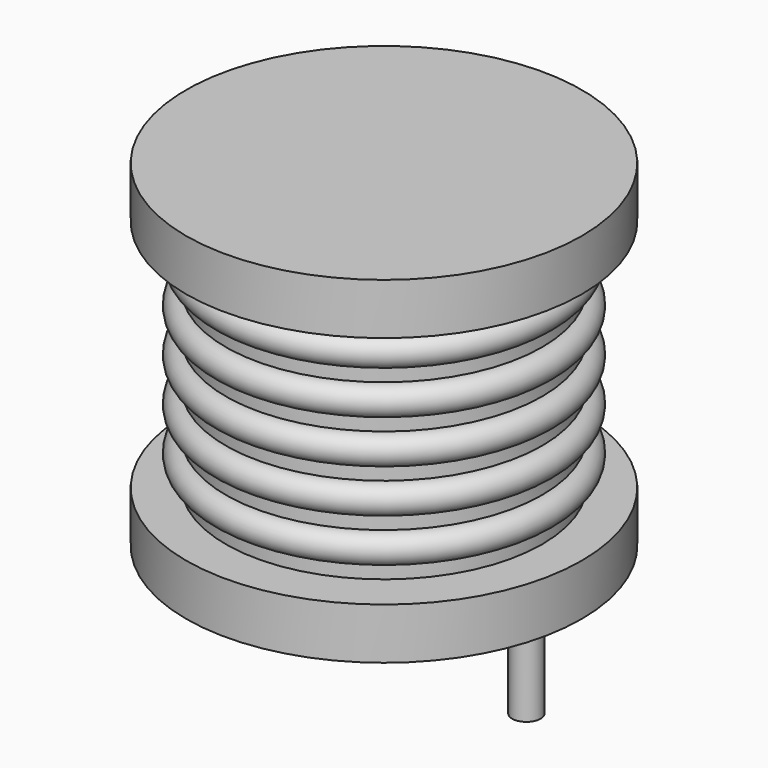
from build123d import *

# Parameters (mm, degrees)
SKETCH001_R  = 0.45
PAD001_DEPTH = 3.5


with BuildPart() as pad001:
    # Sketch001 → Pad001 (new body)
    with BuildSketch(Plane.XY.offset(0.5)):
        Circle(SKETCH001_R)
        with Locations((9, 0)):
            Circle(SKETCH001_R)
    extrude(amount=-PAD001_DEPTH)


with BuildPart() as revolution:
    # Sketch → Revolution (revolve)
    with BuildSketch(Plane(origin=(4.5, 0, 0), x_dir=(1, 0, 0), z_dir=(0, -1, 0))):
        Polygon((0, 0.05), (3.6, 0.05), (3.6, 0.2), (6.25, 0.2), (6.25, 1.82), (1.25, 1.82), (1.25, 9.23), (6.25, 9.23), (6.25, 10.85), (0, 10.85), align=None)
    revolve(axis=Axis((4.5, 0, 0), (0, 0, 1)))


with BuildPart() as revolution001:
    # Sketch002 → Revolution001 (revolve)
    with BuildSketch(Plane(origin=(4.5, 0, 0), x_dir=(1, 0, 0), z_dir=(0, -1, 0))):
        with BuildLine():
            Line((5, 1.87), (1.25, 1.87))
            Line((1.25, 1.87), (1.25, 9.18))
            Line((1.25, 9.18), (5, 9.18))
            Line((5, 9.18), (5, 8.723125))
            ThreePointArc((5, 7.809375), (5.456875, 8.26625), (5, 8.723125))
            Line((5, 7.809375), (5, 7.3525))
            ThreePointArc((5, 6.43875), (5.456875, 6.895625), (5, 7.3525))
            Line((5, 6.43875), (5, 5.981875))
            ThreePointArc((5, 5.068125), (5.456875, 5.525), (5, 5.981875))
            Line((5, 5.068125), (5, 4.61125))
            ThreePointArc((5, 3.6975), (5.456875, 4.154375), (5, 4.61125))
            Line((5, 3.6975), (5, 3.240625))
            ThreePointArc((5, 2.326875), (5.456875, 2.78375), (5, 3.240625))
            Line((5, 1.87), (5, 2.326875))
        make_face()
    revolve(axis=Axis((4.5, 0, 0), (0, 0, 1)))


solid = Compound([pad001.part, revolution.part, revolution001.part])
